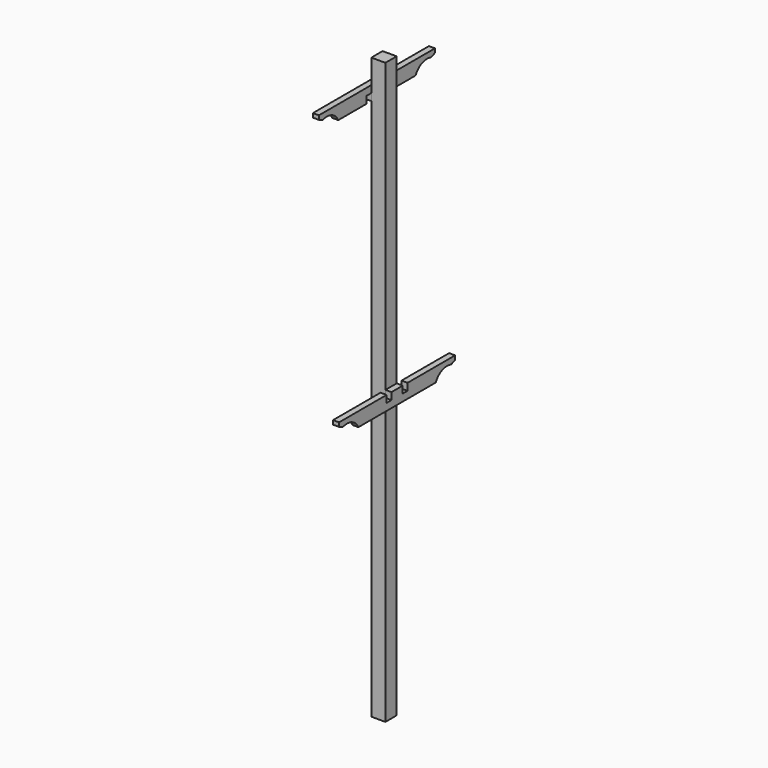
from build123d import *

# Parameters (mm, degrees)
F0_W      = 88.9
F0_H      = 88.9
F1_DEPTH  = 3657.6
F2_W      = 88.9
F2_H      = 88.9
F3_DEPTH  = 38.1
F4_W      = 38.1
F4_H      = 44.45
F5_DEPTH  = 254
F6_DEPTH  = 254
F7_W      = 88.9
F7_H      = 88.9
F8_DEPTH  = 38.1
F9_W      = 38.1
F9_H      = 44.45
F10_DEPTH = 254


with BuildPart() as f1:
    # F0 (on Top) → F1 (new body)
    with BuildSketch(Plane.XY):
        Rectangle(F0_W, F0_H)
    extrude(amount=F1_DEPTH)


with BuildPart() as f3:
    # F2 (on face) → F3 (new body)
    with BuildSketch(Plane(origin=(-44.45, 0, 0), x_dir=(0, -1, 0), z_dir=(-1, 0, 0))):
        with BuildLine():
            Line((-44.45, 3505.2), (-457.2, 3505.2))
            Line((-457.2, 3505.2), (-457.2, 3479.8))
            Line((-457.2, 3479.8), (-425.45, 3467.3388344477))
            ThreePointArc((-425.45, 3467.3388344477), (-355.3884967608, 3464.8354035511), (-304.8, 3416.3))
            Line((-304.8, 3416.3), (-44.45, 3416.3))
            Line((-44.45, 3416.3), (-44.45, 3505.2))
        make_face()
        with BuildLine():
            Line((457.2, 3505.2), (44.45, 3505.2))
            Line((44.45, 3505.2), (44.45, 3416.3))
            Line((44.45, 3416.3), (304.8, 3416.3))
            ThreePointArc((304.8, 3416.3), (355.3884967608, 3464.8354035511), (425.45, 3467.3388344477))
            Line((425.45, 3467.3388344477), (457.2, 3479.8))
            Line((457.2, 3479.8), (457.2, 3505.2))
        make_face()
        with Locations((0, 3460.75)):
            Rectangle(F2_W, F2_H)
    extrude(amount=F3_DEPTH)

    # F4 (on face) → F5 (cut)
    with BuildSketch(Plane(origin=(-82.55, 0, 0), x_dir=(0, -1, 0), z_dir=(-1, 0, 0))):
        with Locations((63.5, 3438.525)):
            Rectangle(F4_W, F4_H)
    extrude(amount=-F5_DEPTH, mode=Mode.SUBTRACT)

    # F4 (on face) → F6 (cut)
    with BuildSketch(Plane(origin=(-82.55, 0, 0), x_dir=(0, -1, 0), z_dir=(-1, 0, 0))):
        with Locations((-63.5, 3438.525)):
            Rectangle(F4_W, F4_H)
    extrude(amount=-F6_DEPTH, mode=Mode.SUBTRACT)


with BuildPart() as f8:
    # F7 (on face) → F8 (new body)
    with BuildSketch(Plane.YZ.offset(44.45)):
        with BuildLine():
            Line((-44.45, 1842.6301161539), (-457.2, 1842.6301161539))
            Line((-457.2, 1842.6301161539), (-457.2, 1817.2301161539))
            Line((-457.2, 1817.2301161539), (-425.45, 1804.7689506016))
            ThreePointArc((-425.45, 1804.7689506016), (-355.3884967608, 1802.265519705), (-304.8, 1753.7301161539))
            Line((-304.8, 1753.7301161539), (-44.45, 1753.7301161539))
            Line((-44.45, 1753.7301161539), (-44.45, 1842.6301161539))
        make_face()
        with Locations((0, 1798.1801161539)):
            Rectangle(F7_W, F7_H)
        with BuildLine():
            Line((457.2, 1842.6301161539), (44.45, 1842.6301161539))
            Line((44.45, 1842.6301161539), (44.45, 1753.7301161539))
            Line((44.45, 1753.7301161539), (304.8, 1753.7301161539))
            ThreePointArc((304.8, 1753.7301161539), (355.3884967608, 1802.265519705), (425.45, 1804.7689506016))
            Line((425.45, 1804.7689506016), (457.2, 1817.2301161539))
            Line((457.2, 1817.2301161539), (457.2, 1842.6301161539))
        make_face()
    extrude(amount=F8_DEPTH)

    # F9 (on face) → F10 (cut)
    with BuildSketch(Plane.YZ.offset(82.55)):
        with Locations((-63.5, 1820.4051161539)):
            Rectangle(F9_W, F9_H)
        with Locations((63.5, 1820.4051161539)):
            Rectangle(F9_W, F9_H)
    extrude(amount=-F10_DEPTH, mode=Mode.SUBTRACT)


solid = Compound([f1.part, f3.part, f8.part])
